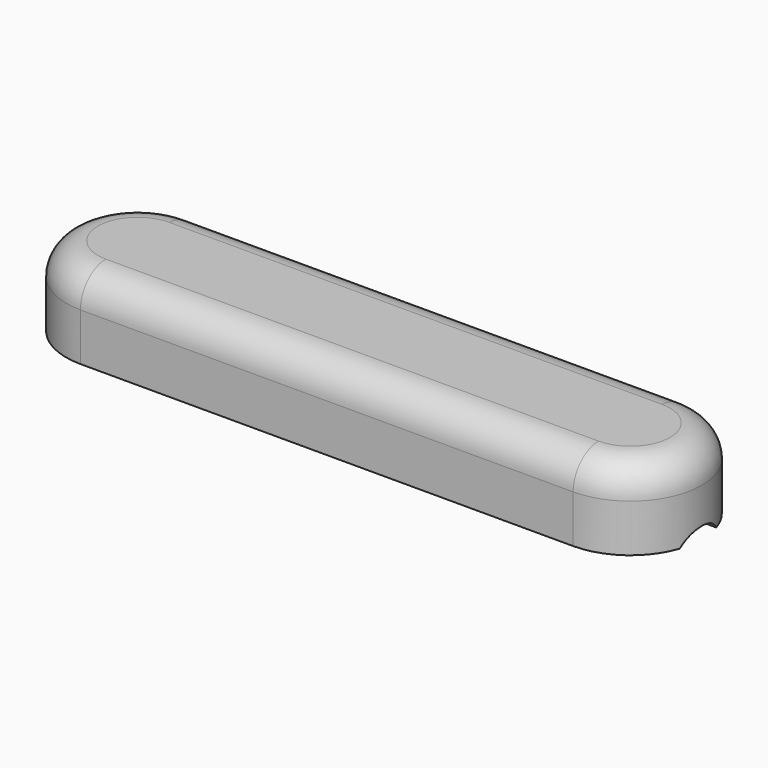
from build123d import *

# Parameters (mm, degrees)
SKETCH_W             = 254
SKETCH_H             = 57.15
PAD_DEPTH            = 31.75
POCKET_DEPTH         = 31.751
FILLET_R             = 12.7
SKETCH002_R          = 11.1125
POCKET001_DEPTH      = 127.001
POCKET001_DEPTH_BACK = -127.001


with BuildPart() as part:
    # Sketch → Pad (new body)
    with BuildSketch(Plane.XY):
        Rectangle(SKETCH_W, SKETCH_H)
    extrude(amount=PAD_DEPTH)

    # Sketch001 (on Face6 of Pad) → Pocket (cut, through all)
    with BuildSketch(Plane.XY.offset(31.75)):
        with BuildLine():
            ThreePointArc((-98.425, 28.575), (-127, 0), (-98.425, -28.575))
            Line((-98.425, -28.575), (-145.596313, -28.575))
            Line((-145.596313, 28.575), (-145.596313, -28.575))
            Line((-98.425, 28.575), (-145.596313, 28.575))
        make_face()
        with BuildLine():
            ThreePointArc((98.425, -28.575), (127, 0), (98.425, 28.575))
            Line((98.425, 28.575), (145.596313, 28.575))
            Line((145.596313, 28.575), (145.596313, -28.575))
            Line((98.425, -28.575), (145.596313, -28.575))
        make_face()
    extrude(amount=-POCKET_DEPTH, mode=Mode.SUBTRACT)

    # Fillet
    fillet_edges = [part.edges().sort_by_distance(p)[0] for p in [
        (-118.630576, -20.205576, 31.75),
        (-118.630576, 20.205576, 31.75),
        (0, 28.575, 31.75),
        (118.630576, 20.205576, 31.75),
        (118.630576, -20.205576, 31.75),
        (0, -28.575, 31.75),
    ]]
    fillet(fillet_edges, radius=FILLET_R)

    # Sketch002 → Pocket001 (cut, two sides)
    with BuildSketch(Plane.YZ) as pocket001_sk:
        with Locations((0, -6.35)):
            Circle(SKETCH002_R)
    extrude(amount=-POCKET001_DEPTH, mode=Mode.SUBTRACT)
    extrude(pocket001_sk.sketch, amount=-POCKET001_DEPTH_BACK, mode=Mode.SUBTRACT)


solid = part.part
